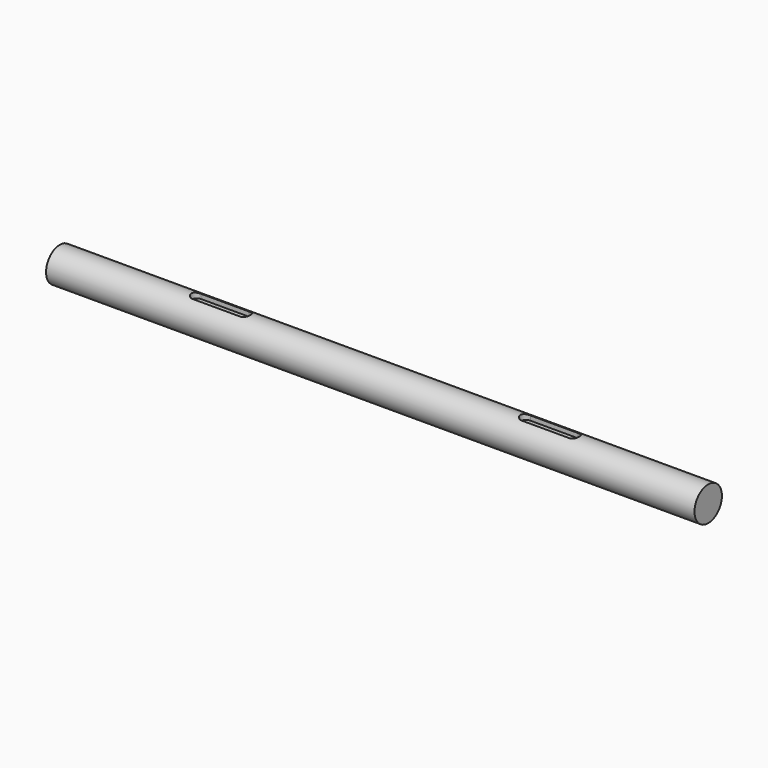
from build123d import *

# Parameters (mm, degrees)
F0_R     = 12.5
F2_DEPTH = 236.5
F4_DEPTH = 4


with BuildPart() as f2:
    # F0 (on Right) → F2 (new body, symmetric)
    with BuildSketch(Plane.YZ):
        Circle(F0_R)
    extrude(amount=F2_DEPTH, both=True)

    # F3 (on offset) → F4 (cut)
    with BuildSketch(Plane.XY.offset(12.5)):
        with BuildLine():
            ThreePointArc((-136.5, 4), (-140.5, 0), (-136.5, -4))
            Line((-136.5, -4), (-101.5, -4))
            ThreePointArc((-101.5, -4), (-97.5, 0), (-101.5, 4))
            Line((-101.5, 4), (-136.5, 4))
        make_face()
        with BuildLine():
            ThreePointArc((103.5, 4), (99.5, 0), (103.5, -4))
            Line((103.5, -4), (138.5, -4))
            ThreePointArc((138.5, -4), (142.5, 0), (138.5, 4))
            Line((138.5, 4), (103.5, 4))
        make_face()
    extrude(amount=-F4_DEPTH, mode=Mode.SUBTRACT)


solid = f2.part
